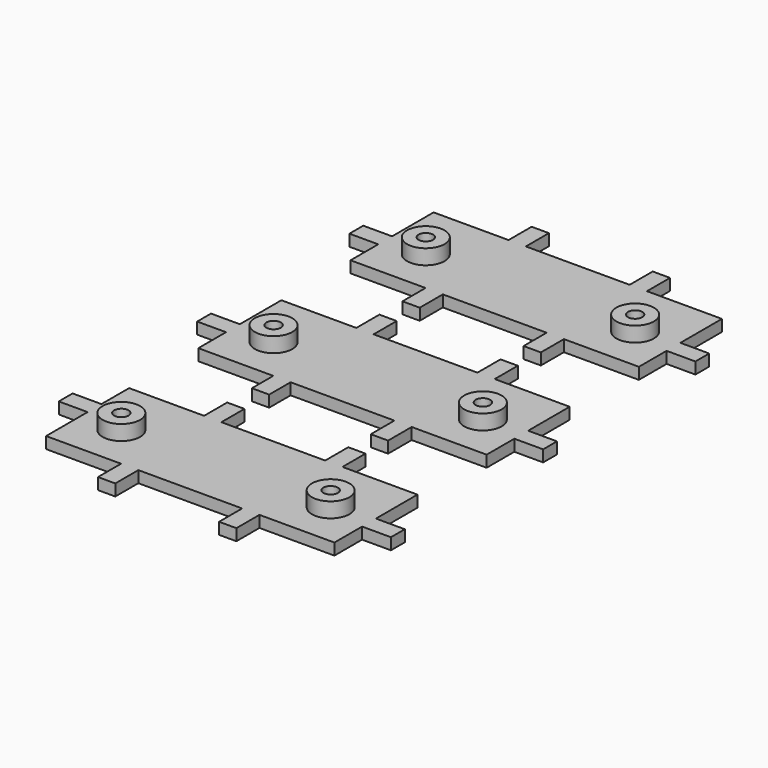
from build123d import *

# Parameters (mm, degrees)
F0_W     = 3
F0_H     = 5
F0_W_2   = 5
F0_H_2   = 3
F0_H_3   = 4.639511
F0_H_4   = 5.117211
F1_DEPTH = 2
F2_R     = 3.25
F2_R_2   = 1.25
F3_DEPTH = 2.6


with BuildPart() as f1:
    # F0 (on Top) → F1 (new body)
    with BuildSketch(Plane.XY):
        Polygon((-1.260213, 31.334544), (-14.260213, 31.334544), (-14.260213, 22.334544), (-14.260213, 19.334544), (-14.260213, 13.334544), (-1.260213, 13.334544), (1.739787, 13.334544), (19.739787, 13.334544), (22.739787, 13.334544), (35.739787, 13.334544), (35.739787, 19.334544), (35.739787, 22.334544), (35.739787, 31.334544), (22.739787, 31.334544), (19.739787, 31.334544), (1.739787, 31.334544), align=None)
        with Locations((0.239787, 33.834544)):
            Rectangle(F0_W, F0_H)
        with Locations((-16.760213, 20.834544)):
            Rectangle(F0_W_2, F0_H_2)
        with Locations((21.239787, 33.834544)):
            Rectangle(F0_W, F0_H)
        with Locations((0.239787, 10.834544)):
            Rectangle(F0_W, F0_H)
        with Locations((38.239787, 20.834544)):
            Rectangle(F0_W_2, F0_H_2)
        with Locations((21.239787, 10.834544)):
            Rectangle(F0_W, F0_H)
        Polygon((-1.260213, -1.665456), (-14.260213, -1.665456), (-14.260213, -10.665456), (-14.260213, -13.665456), (-14.260213, -19.665456), (-1.260213, -19.665456), (1.739787, -19.665456), (19.739787, -19.665456), (22.739787, -19.665456), (35.739787, -19.665456), (35.739787, -13.665456), (35.739787, -10.665456), (35.739787, -1.665456), (22.739787, -1.665456), (19.739787, -1.665456), (1.739787, -1.665456), align=None)
        with Locations((0.239787, 0.834544)):
            Rectangle(F0_W, F0_H)
        with Locations((-16.760213, -12.165456)):
            Rectangle(F0_W_2, F0_H_2)
        with Locations((21.239787, 0.834544)):
            Rectangle(F0_W, F0_H)
        with Locations((0.239787, -21.985211)):
            Rectangle(F0_W, F0_H_3)
        with Locations((38.239787, -12.165456)):
            Rectangle(F0_W_2, F0_H_2)
        with Locations((21.239787, -22.224061)):
            Rectangle(F0_W, F0_H_4)
        Polygon((-1.260213, -34.665456), (-14.260213, -34.665456), (-14.260213, -40.665456), (-14.260213, -43.665456), (-14.260213, -52.665456), (-1.260213, -52.665456), (1.739787, -52.665456), (19.739787, -52.665456), (22.739787, -52.665456), (35.739787, -52.665456), (35.739787, -46.665456), (35.739787, -43.665456), (35.739787, -34.665456), (22.739787, -34.665456), (19.739787, -34.665456), (1.739787, -34.665456), align=None)
        with Locations((0.239787, -32.165456)):
            Rectangle(F0_W, F0_H)
        with Locations((-16.760213, -42.165456)):
            Rectangle(F0_W_2, F0_H_2)
        with Locations((21.239787, -32.165456)):
            Rectangle(F0_W, F0_H)
        with Locations((0.239787, -55.165456)):
            Rectangle(F0_W, F0_H)
        with Locations((38.239787, -45.165456)):
            Rectangle(F0_W_2, F0_H_2)
        with Locations((21.239787, -55.165456)):
            Rectangle(F0_W, F0_H)
    extrude(amount=F1_DEPTH)


with BuildPart() as f3:
    # F2 (on face) → F3 (new body)
    with BuildSketch(Plane.XY.offset(2)):
        with Locations((-7.410213, 21.084544)):
            Circle(F2_R)
        with Locations((-7.410213, 21.084544)):
            Circle(F2_R_2, mode=Mode.SUBTRACT)
        with Locations((28.889787, 21.084544)):
            Circle(F2_R)
        with Locations((28.889787, 21.084544)):
            Circle(F2_R_2, mode=Mode.SUBTRACT)
        with Locations((-7.410213, -11.915456)):
            Circle(F2_R)
        with Locations((-7.410213, -11.915456)):
            Circle(F2_R_2, mode=Mode.SUBTRACT)
        with Locations((-7.410213, -44.915456)):
            Circle(F2_R)
        with Locations((-7.410213, -44.915456)):
            Circle(F2_R_2, mode=Mode.SUBTRACT)
        with Locations((28.889787, -11.915456)):
            Circle(F2_R)
        with Locations((28.889787, -11.915456)):
            Circle(F2_R_2, mode=Mode.SUBTRACT)
        with Locations((28.889787, -44.915456)):
            Circle(F2_R)
        with Locations((28.889787, -44.915456)):
            Circle(F2_R_2, mode=Mode.SUBTRACT)
    extrude(amount=F3_DEPTH)


solid = Compound([f1.part, f3.part])
